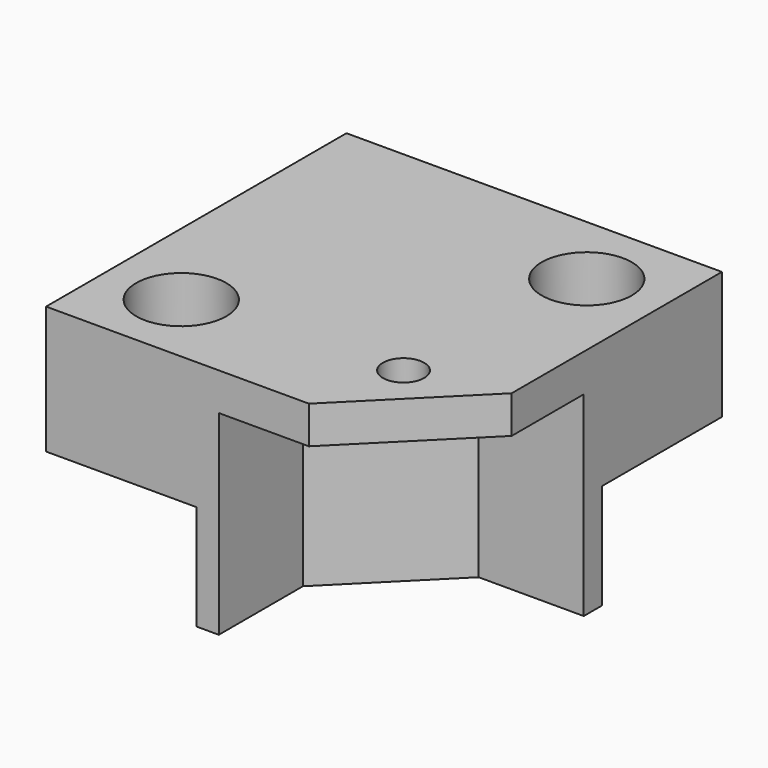
from build123d import *

# Parameters (mm, degrees)
SKETCH001_R     = 2.75
PAD001_DEPTH    = 17
POCKET_DEPTH    = 12
SKETCH002_R     = 2.75
POCKET001_DEPTH = 5.001
SKETCH004_R     = 3.75
SKETCH004_R_2   = 2.75
PAD_DEPTH       = 0.5
PAD002_DEPTH    = 14
SKETCH006_R     = 6
POCKET002_DEPTH = 11


with BuildPart() as part:
    # Sketch001 → Pad001 (new body)
    with BuildSketch(Plane.XY.offset(6)):
        Polygon((15, -30), (-20, -30), (-20, 20), (30, 20), (30, -15), align=None)
        with Locations((-10, -20)):
            Circle(SKETCH001_R, mode=Mode.SUBTRACT)
        with Locations((20, 10)):
            Circle(SKETCH001_R, mode=Mode.SUBTRACT)
    extrude(amount=PAD001_DEPTH)

    # Sketch (on Face8 of Pad001) → Pocket (cut)
    with BuildSketch(Plane(origin=(0, 0, 6), x_dir=(1, 0, 0), z_dir=(0, 0, -1))):
        Polygon((15, 30), (3, 30), (3, 16), (16, 3), (30, 3), (30, 15), align=None)
    extrude(amount=-POCKET_DEPTH, mode=Mode.SUBTRACT)

    # Sketch002 (on Face2 of Pocket) → Pocket001 (cut, through all)
    with BuildSketch(Plane(origin=(0, 0, 18), x_dir=(1, 0, 0), z_dir=(0, 0, -1))):
        with Locations((18, 18)):
            Circle(SKETCH002_R)
    extrude(amount=-POCKET001_DEPTH, mode=Mode.SUBTRACT)

    # Sketch004 (on Face2 of Pocket001) → Pad (join)
    with BuildSketch(Plane(origin=(0, 0, 18), x_dir=(1, 0, 0), z_dir=(0, 0, -1))):
        with Locations((18, 18)):
            Circle(SKETCH004_R)
        with Locations((18, 18)):
            Circle(SKETCH004_R_2, mode=Mode.SUBTRACT)
    extrude(amount=PAD_DEPTH)

    # Sketch005 (on Face4 of Pad) → Pad002 (join)
    with BuildSketch(Plane(origin=(0, 0, 6), x_dir=(1, 0, 0), z_dir=(0, 0, -1))):
        Polygon((3, 16), (16, 3), (30, 3), (30, 0), (0, 0), (0, 30), (3, 30), align=None)
    extrude(amount=PAD002_DEPTH)

    # Sketch006 (on Face5 of Pad002) → Pocket002 (cut)
    with BuildSketch(Plane.XY.offset(23)):
        with Locations((20, 10)):
            Circle(SKETCH006_R)
        with Locations((-10, -20)):
            Circle(SKETCH006_R)
    extrude(amount=-POCKET002_DEPTH, mode=Mode.SUBTRACT)


solid = part.part
